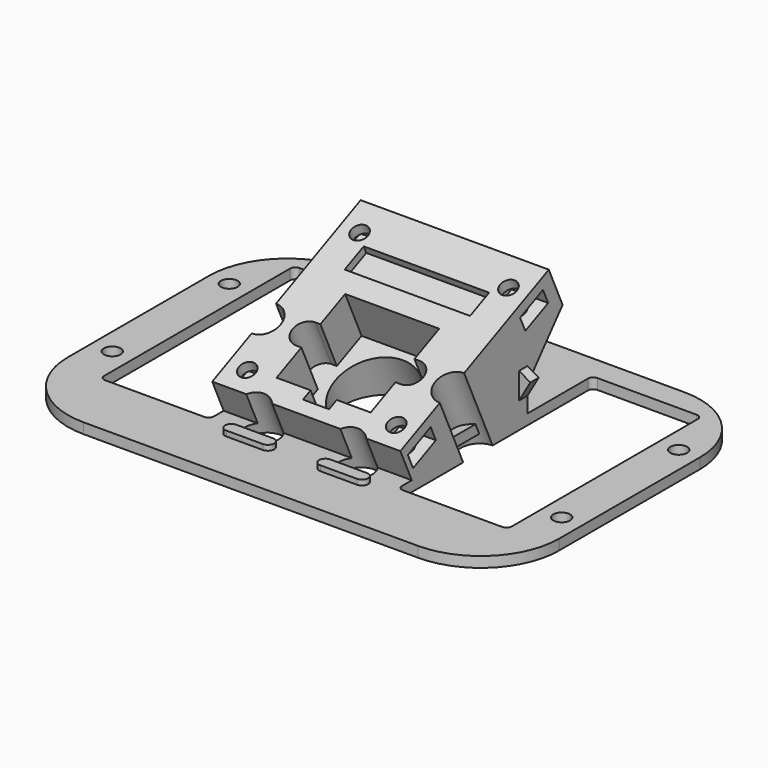
from build123d import *

# Parameters (mm, degrees)
PAD047_DEPTH      = 2
PAD048_DEPTH      = 18
PAD048_DEPTH_BACK = 18
SKETCH145_W       = 21
SKETCH145_H       = 46.5
POCKET061_DEPTH   = 2
FILLET010_R       = 1
POCKET062_DEPTH   = 36
SKETCH147_R       = 3.2
SKETCH147_R_2     = 7.5
POCKET063_DEPTH   = 40
SKETCH148_R       = 3.2
POCKET064_DEPTH   = 16
SKETCH149_R       = 1.6
POCKET065_DEPTH   = 8
POCKET066_DEPTH   = 7
POCKET067_DEPTH   = 7
POCKET068_DEPTH   = 9.5
SKETCH153_W       = 24
SKETCH153_H       = 5
POCKET069_DEPTH   = 1.5
PAD049_DEPTH      = 2
PAD050_DEPTH      = 1
SKETCH156_W       = 5
SKETCH156_H       = 2
PAD051_DEPTH      = 15
SKETCH157_R       = 1.6
POCKET070_DEPTH   = 5


with BuildPart() as part:
    # Sketch143 → Pad047 (new body)
    with BuildSketch(Plane.XY.offset(42)):
        with BuildLine():
            ThreePointArc((10, 0.35), (14.3933982822, -10.2566017178), (25, -14.65))
            Line((25, -14.65), (89, -14.65))
            ThreePointArc((89, -14.65), (99.6066017178, -10.2566017178), (104, 0.35))
            Line((104, 34.05), (104, 0.35))
            ThreePointArc((104, 34.05), (99.6066017178, 44.6566017178), (89, 49.05))
            Line((25, 49.05), (89, 49.05))
            ThreePointArc((25, 49.05), (14.3933982822, 44.6566017178), (10, 34.05))
            Line((10, 34.05), (10, 0.35))
        make_face()
    extrude(amount=PAD047_DEPTH)

    # Sketch144 → Pad048 (join, two sides)
    with BuildSketch(Plane.YZ.offset(57)) as pad048_sk:
        Polygon((-14.65, 44), (49.05, 44), (49.05, 72.9546061157), align=None)
    extrude(amount=PAD048_DEPTH)
    extrude(pad048_sk.sketch, amount=-PAD048_DEPTH_BACK)

    # Sketch145 (on Face8 of Pad048) → Pocket061 (cut)
    with BuildSketch(Plane.XY.offset(44)):
        with Locations((85.5, 21.25)):
            Rectangle(SKETCH145_W, SKETCH145_H)
        with Locations((28.5, 21.25)):
            Rectangle(SKETCH145_W, SKETCH145_H)
    extrude(amount=-POCKET061_DEPTH, mode=Mode.SUBTRACT)

    # Fillet010
    fillet010_edges = [part.edges().sort_by_distance(p)[0] for p in [
        (75, 44.5, 43),
        (96, 44.5, 43),
        (75, -2, 43),
        (96, -2, 43),
        (18, -2, 43),
        (39, -2, 43),
        (39, 44.5, 43),
        (18, 44.5, 43),
    ]]
    fillet(fillet010_edges, radius=FILLET010_R)

    # Sketch146 (on Face31 of Fillet010) → Pocket062 (cut)
    with BuildSketch(Plane.YZ.offset(75)):
        Polygon((-14.65, 44), (1.35, 44), (-1.3897355414, 50.0274055634), align=None)
        Polygon((34.1145443428, 66.1657484122), (37.4249736451, 58.8828192052), (29.05, 49), (29.05, 44), (49.05, 44), (49.05, 72.9546061157), align=None)
    extrude(amount=-POCKET062_DEPTH, mode=Mode.SUBTRACT)

    # Sketch147 (on Face33 of Pocket062) → Pocket063 (cut)
    with BuildSketch(Plane(origin=(0, -19.0839356545, 41.9845704801), x_dir=(1, 0, 0), z_dir=(0, -0.4138036628, 0.9103661509))):
        with Locations((39, 33)):
            Circle(SKETCH147_R)
        with Locations((48, 17.4115427319)):
            Circle(SKETCH147_R)
        with Locations((66, 17.4115427319)):
            Circle(SKETCH147_R)
        with Locations((75, 33)):
            Circle(SKETCH147_R)
        with Locations((57, 33)):
            Circle(SKETCH147_R_2)
    extrude(amount=-POCKET063_DEPTH, mode=Mode.SUBTRACT)

    # Sketch148 (on Face33 of Pocket062) → Pocket064 (cut)
    with BuildSketch(Plane(origin=(0, -11.6354697243, 25.5979797643), x_dir=(1, 0, 0), z_dir=(0, -0.4138036628, 0.9103661509))):
        with Locations((48, 48.5884572681)):
            Circle(SKETCH148_R)
        with Locations((66, 48.5884572681)):
            Circle(SKETCH148_R)
    extrude(amount=-POCKET064_DEPTH, mode=Mode.SUBTRACT)

    # Sketch149 (on Face41 of Pocket064) → Pocket065 (cut)
    with BuildSketch(Plane(origin=(0, -19.0839356545, 41.9845704801), x_dir=(1, 0, 0), z_dir=(0, -0.4138036628, 0.9103661509))):
        with Locations((42.75, 53)):
            Circle(SKETCH149_R)
        with Locations((71.25, 53)):
            Circle(SKETCH149_R)
        with Locations((71.25, 23.5)):
            Circle(SKETCH149_R)
        with Locations((42.75, 23.5)):
            Circle(SKETCH149_R)
    extrude(amount=-POCKET065_DEPTH, mode=Mode.SUBTRACT)

    # Sketch150 (on Face47 of Pocket065) → Pocket066 (cut)
    with BuildSketch(Plane.YZ.offset(75)):
        Polygon((0.4061777641, 48.6468132655), (5.8683746693, 51.1296352423), (7.1097856577, 48.3985367897), (1.6475887524, 45.9157148129), align=None)
        Polygon((27.2619792149, 60.8540213179), (32.7241761202, 63.3368432946), (33.9655871086, 60.605744842), (28.5033902033, 58.1229228652), align=None)
    extrude(amount=-POCKET066_DEPTH, mode=Mode.SUBTRACT)

    # Sketch151 (on Face47 of Pocket065) → Pocket067 (cut)
    with BuildSketch(Plane.YZ.offset(39)):
        Polygon((0.4061777641, 48.6468132655), (5.8683746693, 51.1296352423), (7.1097856577, 48.3985367897), (1.6475887524, 45.9157148129), align=None)
        Polygon((27.2619792149, 60.8540213179), (32.7241761202, 63.3368432946), (33.9655871086, 60.605744842), (28.5033902033, 58.1229228652), align=None)
    extrude(amount=POCKET067_DEPTH, mode=Mode.SUBTRACT)

    # Sketch152 (on Face41 of Pocket067) → Pocket068 (cut)
    with BuildSketch(Plane(origin=(0, -19.0839356545, 41.9845704801), x_dir=(1, 0, 0), z_dir=(0, -0.4138036628, 0.9103661509))):
        with BuildLine():
            Line((48, 42), (66, 42))
            Line((66, 42), (66, 35.5))
            Line((66, 35.5), (67, 35.5))
            ThreePointArc((67, 30.5), (69.5, 33), (67, 35.5))
            Line((67, 30.5), (66, 30.5))
            Line((66, 30.5), (66, 24))
            Line((66, 24), (59.5, 24))
            Line((59.5, 24), (59.5, 22))
            Line((59.5, 22), (54.5, 22))
            Line((54.5, 22), (54.5, 24))
            Line((54.5, 24), (48, 24))
            Line((48, 24), (48, 30.5))
            Line((48, 30.5), (47, 30.5))
            ThreePointArc((47, 35.5), (44.5, 33), (47, 30.5))
            Line((47, 35.5), (48, 35.5))
            Line((48, 35.5), (48, 42))
        make_face()
    extrude(amount=-POCKET068_DEPTH, mode=Mode.SUBTRACT)

    # Sketch153 (on Face41 of Pocket068) → Pocket069 (cut)
    with BuildSketch(Plane(origin=(0, -19.0839356545, 41.9845704801), x_dir=(1, 0, 0), z_dir=(0, -0.4138036628, 0.9103661509))):
        with Locations((57, 48.5)):
            Rectangle(SKETCH153_W, SKETCH153_H)
    extrude(amount=-POCKET069_DEPTH, mode=Mode.SUBTRACT)

    # Sketch154 → Pad049 (join)
    with BuildSketch(Plane.XZ.offset(-29)):
        Polygon((39, 47), (39, 52), (36.8349364905, 50.75), align=None)
        Polygon((75, 52), (75, 47), (77.1650635095, 50.75), align=None)
    extrude(amount=PAD049_DEPTH)

    # Sketch155 (on Face39 of Pad049) → Pad050 (join)
    with BuildSketch(Plane.XY.offset(44)):
        with BuildLine():
            ThreePointArc((44.5, -2.5), (43.3, -3.7), (44.5, -4.9))
            Line((44.5, -4.9), (51.5, -4.9))
            ThreePointArc((51.5, -4.9), (52.7, -3.7), (51.5, -2.5))
            Line((44.5, -2.5), (51.5, -2.5))
        make_face()
        with BuildLine():
            ThreePointArc((44.5, 31.9), (43.3, 30.7), (44.5, 29.5))
            Line((44.5, 29.5), (51.5, 29.5))
            ThreePointArc((51.5, 29.5), (52.7, 30.7), (51.5, 31.9))
            Line((44.5, 31.9), (51.5, 31.9))
        make_face()
        with BuildLine():
            ThreePointArc((62.5, 31.9), (61.3, 30.7), (62.5, 29.5))
            Line((62.5, 29.5), (69.5, 29.5))
            ThreePointArc((69.5, 29.5), (70.7, 30.7), (69.5, 31.9))
            Line((62.5, 31.9), (69.5, 31.9))
        make_face()
        with BuildLine():
            ThreePointArc((62.5, -2.5), (61.3, -3.7), (62.5, -4.9))
            Line((62.5, -4.9), (69.5, -4.9))
            ThreePointArc((69.5, -4.9), (70.7, -3.7), (69.5, -2.5))
            Line((62.5, -2.5), (69.5, -2.5))
        make_face()
    extrude(amount=PAD050_DEPTH)

    # Sketch156 → Pad051 (join)
    with BuildSketch(Plane.XZ.offset(-11)):
        with Locations((43, 45)):
            Rectangle(SKETCH156_W, SKETCH156_H)
        with Locations((71, 45)):
            Rectangle(SKETCH156_W, SKETCH156_H)
    extrude(amount=-PAD051_DEPTH)

    # Sketch157 (on Face38 of Pad051) → Pocket070 (cut)
    with BuildSketch(Plane.XY.offset(44)):
        with Locations((14, 33.95)):
            Circle(SKETCH157_R)
        with Locations((100, 33.95)):
            Circle(SKETCH157_R)
        with Locations((100, 5.95)):
            Circle(SKETCH157_R)
        with Locations((14, 5.95)):
            Circle(SKETCH157_R)
    extrude(amount=-POCKET070_DEPTH, mode=Mode.SUBTRACT)


solid = part.part
